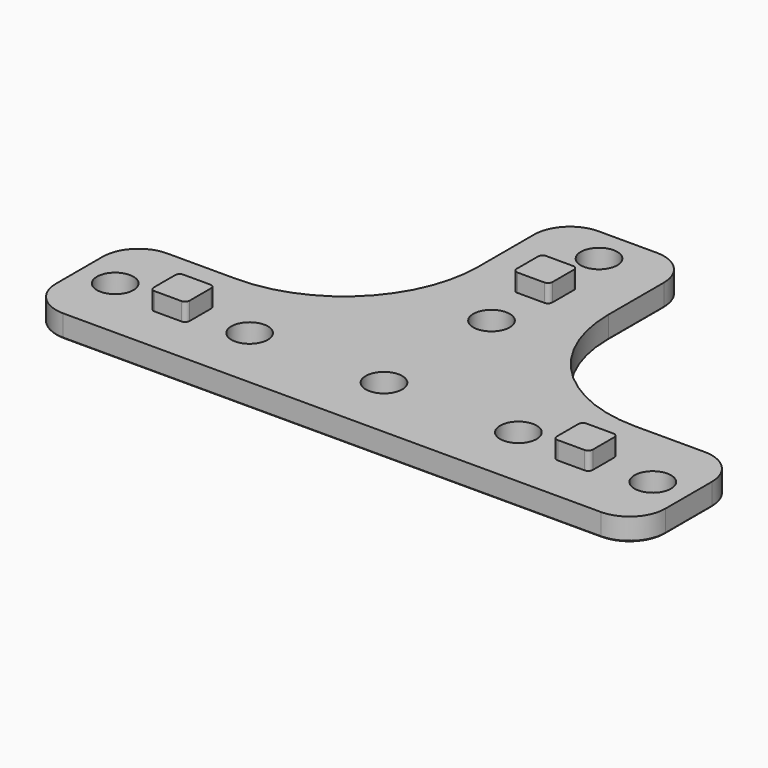
from build123d import *

# Parameters (mm, degrees)
F0_R     = 4.075
F1_DEPTH = 5
F2_R     = 8
F3_R     = 30
F4_W     = 8
F4_H     = 8
F5_DEPTH = 4
F6_R     = 1
F8_COUNT = 3
F8_ANGLE = 180
F9_SIZE  = 0.25


with BuildPart() as f1:
    # F0 (on Top) → F1 (new body)
    with BuildSketch(Plane.XY):
        Polygon((-14.5, 14.5), (-68, 14.5), (-68, -14.5), (0, -14.5), (68, -14.5), (68, 14.5), (14.5, 14.5), (14.5, 68), (-14.5, 68), align=None)
        with Locations((-60, 0)):
            Circle(F0_R, mode=Mode.SUBTRACT)
        with Locations((-30, 0)):
            Circle(F0_R, mode=Mode.SUBTRACT)
        Circle(F0_R, mode=Mode.SUBTRACT)
        with Locations((30, 0)):
            Circle(F0_R, mode=Mode.SUBTRACT)
        with Locations((60, 0)):
            Circle(F0_R, mode=Mode.SUBTRACT)
        with Locations((0, 30)):
            Circle(F0_R, mode=Mode.SUBTRACT)
        with Locations((0, 60)):
            Circle(F0_R, mode=Mode.SUBTRACT)
    extrude(amount=F1_DEPTH)

    # F2
    f2_edges = [f1.edges().sort_by_distance(p)[0] for p in [
        (-14.5, 68, 2.5),
        (14.5, 68, 2.5),
        (-68, 14.5, 2.5),
        (-68, -14.5, 2.5),
        (68, 14.5, 2.5),
        (68, -14.5, 2.5),
    ]]
    fillet(f2_edges, radius=F2_R)

    # F3
    f3_edges = [f1.edges().sort_by_distance(p)[0] for p in [
        (14.5, 14.5, 2.5),
        (-14.5, 14.5, 2.5),
    ]]
    fillet(f3_edges, radius=F3_R)



with BuildPart() as f5:
    # F4 (on face) → F5 (new body)
    with BuildSketch(Plane.XY.offset(5)):
        with Locations((-45, 0)):
            Rectangle(F4_W, F4_H)
    extrude(amount=F5_DEPTH)

    # F6
    f6_edges = [f5.edges().sort_by_distance(p)[0] for p in [
        (-49, -4, 7),
        (-41, -4, 7),
        (-49, 4, 7),
        (-41, 4, 7),
    ]]
    fillet(f6_edges, radius=F6_R)


with BuildPart() as f1_1:
    add(f1.part)

    add(f5.part)  # F8 merges F5
    # F8: F5 ×3 about axis
    f8_axis = Axis((0, 0, 11.3541549072), (0, 0, -1))
    for i in range(1, F8_COUNT):
        add(f5.part.rotate(f8_axis, i * F8_ANGLE / (F8_COUNT - 1)))

    # F9
    f9_edges = [f1_1.edges().sort_by_distance(p)[0] for p in [
        (-52.25, 14.5, 0),
        (-23.286797, 23.286797, 0),
        (-65.656854, 12.156854, 0),
        (-14.5, 52.25, 0),
        (-68, 0, 0),
        (-12.156854, 65.656854, 0),
        (-65.656854, -12.156854, 0),
        (0, 68, 0),
        (0, -14.5, 0),
        (12.156854, 65.656854, 0),
        (65.656854, -12.156854, 0),
        (14.5, 52.25, 0),
        (68, 0, 0),
        (23.286797, 23.286797, 0),
        (65.656854, 12.156854, 0),
        (52.25, 14.5, 0),
        (-64.075, 0, 0),
        (-34.075, 0, 0),
        (-4.075, 0, 0),
        (25.925, 0, 0),
        (55.925, 0, 0),
        (-4.075, 30, 0),
        (-4.075, 60, 0),
    ]]
    chamfer(f9_edges, length=F9_SIZE)


solid = f1_1.part
